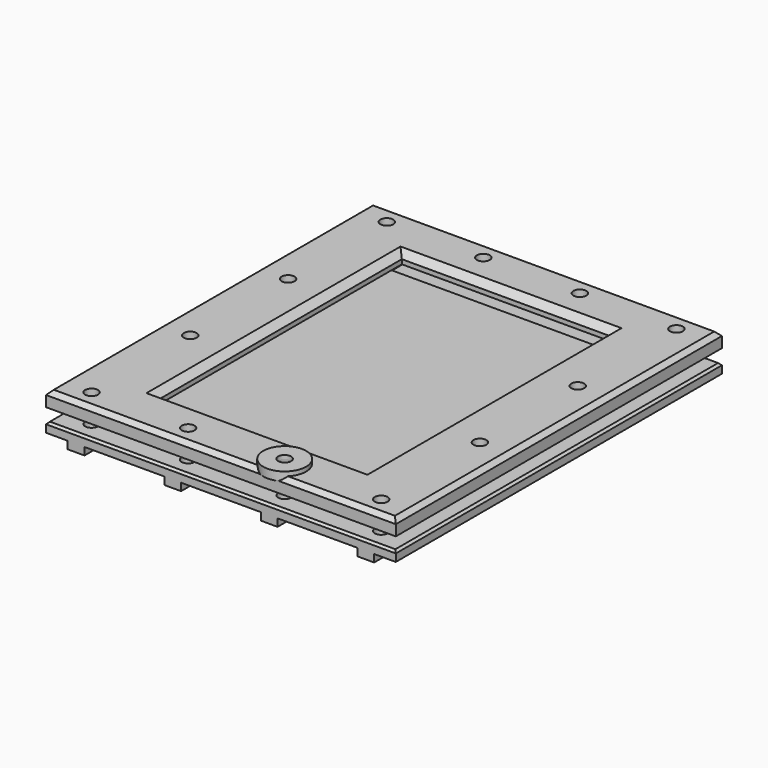
from build123d import *

# Parameters (mm, degrees)
BOX002_W          = 100
BOX002_H          = 150
BOX002_DEPTH      = 1.9
TUBE_R            = 10
TUBE_R_2          = 3
TUBE_DEPTH        = 4
BOX010_W          = 97
BOX010_H          = 142
BOX010_DEPTH      = 10
BOX009_W          = 101
BOX009_H          = 150
BOX009_DEPTH      = 1.9
CYLINDER016_R     = 3
CYLINDER016_DEPTH = 30
CYLINDER014_R     = 3
CYLINDER014_DEPTH = 30
CYLINDER012_R     = 3
CYLINDER012_DEPTH = 30
CYLINDER018_R     = 3
CYLINDER018_DEPTH = 30
CYLINDER019_R     = 3
CYLINDER019_DEPTH = 30
CYLINDER013_R     = 3
CYLINDER013_DEPTH = 30
CYLINDER015_R     = 3
CYLINDER015_DEPTH = 30
CYLINDER017_R     = 3
CYLINDER017_DEPTH = 30
CYLINDER002_R     = 3
CYLINDER002_DEPTH = 30
CYLINDER032_R     = 3
CYLINDER032_DEPTH = 30
CYLINDER021_R     = 3
CYLINDER021_DEPTH = 30
CYLINDER_R        = 3
CYLINDER_DEPTH    = 30
BOX007_W          = 163
BOX007_H          = 190
BOX007_DEPTH      = 7
CHAMFER_SIZE      = 3
CHAMFER001_SIZE   = 2
CYLINDER025_R     = 3
CYLINDER025_DEPTH = 30
CYLINDER031_R     = 3
CYLINDER031_DEPTH = 30
CYLINDER030_R     = 3
CYLINDER030_DEPTH = 30
CYLINDER024_R     = 3
CYLINDER024_DEPTH = 30
CYLINDER026_R     = 3
CYLINDER026_DEPTH = 30
CYLINDER027_R     = 3
CYLINDER027_DEPTH = 30
CYLINDER029_R     = 3
CYLINDER029_DEPTH = 30
CYLINDER023_R     = 3
CYLINDER023_DEPTH = 30
CYLINDER020_R     = 3
CYLINDER020_DEPTH = 30
CYLINDER028_R     = 3
CYLINDER028_DEPTH = 30
CYLINDER022_R     = 3
CYLINDER022_DEPTH = 30
CYLINDER033_R     = 3
CYLINDER033_DEPTH = 30
BOX006_W          = 37.2
BOX006_H          = 200
BOX006_DEPTH      = 3.5
BOX005_W          = 37.2
BOX005_H          = 200
BOX005_DEPTH      = 3.5
BOX004_W          = 37.2
BOX004_H          = 200
BOX004_DEPTH      = 3.5
BOX003_W          = 37.2
BOX003_H          = 200
BOX003_DEPTH      = 3.5
BOX001_W          = 37.2
BOX001_H          = 200
BOX001_DEPTH      = 3.5
BOX_W             = 163
BOX_H             = 190
BOX_DEPTH         = 8
CHAMFER002_SIZE   = 1


with BuildPart() as plate:
    # Box002 → Box002 (new body)
    with BuildSketch(Plane(origin=(31.5, 10, 14), x_dir=(1, 0, 0), z_dir=(0, 0, 1))):
        with Locations((50, 75)):
            Rectangle(BOX002_W, BOX002_H)
    extrude(amount=BOX002_DEPTH)


with BuildPart() as tube:
    # Tube → Tube (new body)
    with BuildSketch(Plane(origin=(104, 9, 19), x_dir=(1, 0, 0), z_dir=(0, 0, 1))):
        Circle(TUBE_R)
        Circle(TUBE_R_2, mode=Mode.SUBTRACT)
    extrude(amount=TUBE_DEPTH)


with BuildPart() as cube007:
    # Box010 → Box010 (new body)
    with BuildSketch(Plane(origin=(33, 24, 15), x_dir=(1, 0, 0), z_dir=(0, 0, 1))):
        with Locations((48.5, 71)):
            Rectangle(BOX010_W, BOX010_H)
    extrude(amount=BOX010_DEPTH)


with BuildPart() as plate002:
    # Box009 → Box009 (new body)
    with BuildSketch(Plane(origin=(31, 20, 14), x_dir=(1, 0, 0), z_dir=(0, 0, 1))):
        with Locations((50.5, 75)):
            Rectangle(BOX009_W, BOX009_H)
    extrude(amount=BOX009_DEPTH)


with BuildPart() as cylinder016:
    # Cylinder016 → Cylinder016 (new body)
    with BuildSketch(Plane(origin=(14, 66.5, -2), x_dir=(1, 0, 0), z_dir=(0, 0, 1))):
        Circle(CYLINDER016_R)
    extrude(amount=CYLINDER016_DEPTH)


with BuildPart() as cylinder014:
    # Cylinder014 → Cylinder014 (new body)
    with BuildSketch(Plane(origin=(14, 123.5, -2), x_dir=(1, 0, 0), z_dir=(0, 0, 1))):
        Circle(CYLINDER014_R)
    extrude(amount=CYLINDER014_DEPTH)


with BuildPart() as cylinder012:
    # Cylinder012 → Cylinder012 (new body)
    with BuildSketch(Plane(origin=(14, 181, -2), x_dir=(1, 0, 0), z_dir=(0, 0, 1))):
        Circle(CYLINDER012_R)
    extrude(amount=CYLINDER012_DEPTH)


with BuildPart() as cylinder018:
    # Cylinder018 → Cylinder018 (new body)
    with BuildSketch(Plane(origin=(59, 181, -2), x_dir=(1, 0, 0), z_dir=(0, 0, 1))):
        Circle(CYLINDER018_R)
    extrude(amount=CYLINDER018_DEPTH)


with BuildPart() as cylinder019:
    # Cylinder019 → Cylinder019 (new body)
    with BuildSketch(Plane(origin=(104, 181, -2), x_dir=(1, 0, 0), z_dir=(0, 0, 1))):
        Circle(CYLINDER019_R)
    extrude(amount=CYLINDER019_DEPTH)


with BuildPart() as cylinder013:
    # Cylinder013 → Cylinder013 (new body)
    with BuildSketch(Plane(origin=(149, 181, -2), x_dir=(1, 0, 0), z_dir=(0, 0, 1))):
        Circle(CYLINDER013_R)
    extrude(amount=CYLINDER013_DEPTH)


with BuildPart() as cylinder015:
    # Cylinder015 → Cylinder015 (new body)
    with BuildSketch(Plane(origin=(149, 123.5, -2), x_dir=(1, 0, 0), z_dir=(0, 0, 1))):
        Circle(CYLINDER015_R)
    extrude(amount=CYLINDER015_DEPTH)


with BuildPart() as cylinder017:
    # Cylinder017 → Cylinder017 (new body)
    with BuildSketch(Plane(origin=(149, 66.5, -2), x_dir=(1, 0, 0), z_dir=(0, 0, 1))):
        Circle(CYLINDER017_R)
    extrude(amount=CYLINDER017_DEPTH)


with BuildPart() as cylinder002:
    # Cylinder002 → Cylinder002 (new body)
    with BuildSketch(Plane(origin=(149, 9, -2), x_dir=(1, 0, 0), z_dir=(0, 0, 1))):
        Circle(CYLINDER002_R)
    extrude(amount=CYLINDER002_DEPTH)


with BuildPart() as cylinder032:
    # Cylinder032 → Cylinder032 (new body)
    with BuildSketch(Plane(origin=(104, 9, -2), x_dir=(1, 0, 0), z_dir=(0, 0, 1))):
        Circle(CYLINDER032_R)
    extrude(amount=CYLINDER032_DEPTH)


with BuildPart() as cylinder021:
    # Cylinder021 → Cylinder021 (new body)
    with BuildSketch(Plane(origin=(59, 9, -2), x_dir=(1, 0, 0), z_dir=(0, 0, 1))):
        Circle(CYLINDER021_R)
    extrude(amount=CYLINDER021_DEPTH)


with BuildPart() as cylinder:
    # Cylinder → Cylinder (new body)
    with BuildSketch(Plane(origin=(14, 9, -2), x_dir=(1, 0, 0), z_dir=(0, 0, 1))):
        Circle(CYLINDER_R)
    extrude(amount=CYLINDER_DEPTH)


with BuildPart() as table_top:
    # Box007 → Box007 (new body)
    with BuildSketch(Plane.XY.offset(14)):
        with Locations((81.5, 95)):
            Rectangle(BOX007_W, BOX007_H)
    extrude(amount=BOX007_DEPTH)

    # Cut005: cut Cylinder
    add(cylinder.part, mode=Mode.SUBTRACT)

    # Cut006: cut Cylinder021
    add(cylinder021.part, mode=Mode.SUBTRACT)

    # Cut007: cut Cylinder032
    add(cylinder032.part, mode=Mode.SUBTRACT)

    # Cut008: cut Cylinder002
    add(cylinder002.part, mode=Mode.SUBTRACT)

    # Cut009: cut Cylinder017
    add(cylinder017.part, mode=Mode.SUBTRACT)

    # Cut010: cut Cylinder015
    add(cylinder015.part, mode=Mode.SUBTRACT)

    # Cut011: cut Cylinder013
    add(cylinder013.part, mode=Mode.SUBTRACT)

    # Cut012: cut Cylinder019
    add(cylinder019.part, mode=Mode.SUBTRACT)

    # Cut013: cut Cylinder018
    add(cylinder018.part, mode=Mode.SUBTRACT)

    # Cut014: cut Cylinder012
    add(cylinder012.part, mode=Mode.SUBTRACT)

    # Cut015: cut Cylinder014
    add(cylinder014.part, mode=Mode.SUBTRACT)

    # Cut016: cut Cylinder016
    add(cylinder016.part, mode=Mode.SUBTRACT)

    # Cut029: cut plate002
    add(plate002.part, mode=Mode.SUBTRACT)

    # Cut030: cut Cube007
    add(cube007.part, mode=Mode.SUBTRACT)

    # Chamfer
    chamfer_edges = [table_top.edges().sort_by_distance(p)[0] for p in [
        (81.5, 24, 21),
        (130, 95, 21),
        (81.5, 166, 21),
        (33, 95, 21),
    ]]
    chamfer(chamfer_edges, length=CHAMFER_SIZE)

    # Chamfer001
    chamfer001_edges = [table_top.edges().sort_by_distance(p)[0] for p in [
        (0, 95, 21),
        (81.5, 0, 21),
        (163, 95, 21),
        (81.5, 190, 21),
    ]]
    chamfer(chamfer001_edges, length=CHAMFER001_SIZE)


with BuildPart() as cylinder025:
    # Cylinder025 → Cylinder025 (new body)
    with BuildSketch(Plane(origin=(149, 181, -2), x_dir=(1, 0, 0), z_dir=(0, 0, 1))):
        Circle(CYLINDER025_R)
    extrude(amount=CYLINDER025_DEPTH)


with BuildPart() as cylinder031:
    # Cylinder031 → Cylinder031 (new body)
    with BuildSketch(Plane(origin=(104, 181, -2), x_dir=(1, 0, 0), z_dir=(0, 0, 1))):
        Circle(CYLINDER031_R)
    extrude(amount=CYLINDER031_DEPTH)


with BuildPart() as cylinder030:
    # Cylinder030 → Cylinder030 (new body)
    with BuildSketch(Plane(origin=(59, 181, -2), x_dir=(1, 0, 0), z_dir=(0, 0, 1))):
        Circle(CYLINDER030_R)
    extrude(amount=CYLINDER030_DEPTH)


with BuildPart() as cylinder024:
    # Cylinder024 → Cylinder024 (new body)
    with BuildSketch(Plane(origin=(14, 181, -2), x_dir=(1, 0, 0), z_dir=(0, 0, 1))):
        Circle(CYLINDER024_R)
    extrude(amount=CYLINDER024_DEPTH)


with BuildPart() as cylinder026:
    # Cylinder026 → Cylinder026 (new body)
    with BuildSketch(Plane(origin=(14, 123.5, -2), x_dir=(1, 0, 0), z_dir=(0, 0, 1))):
        Circle(CYLINDER026_R)
    extrude(amount=CYLINDER026_DEPTH)


with BuildPart() as cylinder027:
    # Cylinder027 → Cylinder027 (new body)
    with BuildSketch(Plane(origin=(149, 123.5, -2), x_dir=(1, 0, 0), z_dir=(0, 0, 1))):
        Circle(CYLINDER027_R)
    extrude(amount=CYLINDER027_DEPTH)


with BuildPart() as cylinder029:
    # Cylinder029 → Cylinder029 (new body)
    with BuildSketch(Plane(origin=(149, 66.5, -2), x_dir=(1, 0, 0), z_dir=(0, 0, 1))):
        Circle(CYLINDER029_R)
    extrude(amount=CYLINDER029_DEPTH)


with BuildPart() as cylinder023:
    # Cylinder023 → Cylinder023 (new body)
    with BuildSketch(Plane(origin=(149, 9, -2), x_dir=(1, 0, 0), z_dir=(0, 0, 1))):
        Circle(CYLINDER023_R)
    extrude(amount=CYLINDER023_DEPTH)


with BuildPart() as cylinder020:
    # Cylinder020 → Cylinder020 (new body)
    with BuildSketch(Plane(origin=(104, 9, -2), x_dir=(1, 0, 0), z_dir=(0, 0, 1))):
        Circle(CYLINDER020_R)
    extrude(amount=CYLINDER020_DEPTH)


with BuildPart() as cylinder028:
    # Cylinder028 → Cylinder028 (new body)
    with BuildSketch(Plane(origin=(14, 66.5, -2), x_dir=(1, 0, 0), z_dir=(0, 0, 1))):
        Circle(CYLINDER028_R)
    extrude(amount=CYLINDER028_DEPTH)


with BuildPart() as cylinder022:
    # Cylinder022 → Cylinder022 (new body)
    with BuildSketch(Plane(origin=(14, 9, -2), x_dir=(1, 0, 0), z_dir=(0, 0, 1))):
        Circle(CYLINDER022_R)
    extrude(amount=CYLINDER022_DEPTH)


with BuildPart() as cylinder033:
    # Cylinder033 → Cylinder033 (new body)
    with BuildSketch(Plane(origin=(59, 9, -2), x_dir=(1, 0, 0), z_dir=(0, 0, 1))):
        Circle(CYLINDER033_R)
    extrude(amount=CYLINDER033_DEPTH)


with BuildPart() as cube005:
    # Box006 → Box006 (new body)
    with BuildSketch(Plane(origin=(-27.1, -5, 0), x_dir=(1, 0, 0), z_dir=(0, 0, 1))):
        with Locations((18.6, 100)):
            Rectangle(BOX006_W, BOX006_H)
    extrude(amount=BOX006_DEPTH)


with BuildPart() as cube004:
    # Box005 → Box005 (new body)
    with BuildSketch(Plane(origin=(152.9, -5, 0), x_dir=(1, 0, 0), z_dir=(0, 0, 1))):
        with Locations((18.6, 100)):
            Rectangle(BOX005_W, BOX005_H)
    extrude(amount=BOX005_DEPTH)


with BuildPart() as cube003:
    # Box004 → Box004 (new body)
    with BuildSketch(Plane(origin=(107.9, -5, 0), x_dir=(1, 0, 0), z_dir=(0, 0, 1))):
        with Locations((18.6, 100)):
            Rectangle(BOX004_W, BOX004_H)
    extrude(amount=BOX004_DEPTH)


with BuildPart() as cube002:
    # Box003 → Box003 (new body)
    with BuildSketch(Plane(origin=(62.9, -5, 0), x_dir=(1, 0, 0), z_dir=(0, 0, 1))):
        with Locations((18.6, 100)):
            Rectangle(BOX003_W, BOX003_H)
    extrude(amount=BOX003_DEPTH)


with BuildPart() as cube001:
    # Box001 → Box001 (new body)
    with BuildSketch(Plane(origin=(17.9, -5, 0), x_dir=(1, 0, 0), z_dir=(0, 0, 1))):
        with Locations((18.6, 100)):
            Rectangle(BOX001_W, BOX001_H)
    extrude(amount=BOX001_DEPTH)


with BuildPart() as table_top001:
    # Box → Box (new body)
    with BuildSketch(Plane.XY):
        with Locations((81.5, 95)):
            Rectangle(BOX_W, BOX_H)
    extrude(amount=BOX_DEPTH)

    # Cut: cut Cube001
    add(cube001.part, mode=Mode.SUBTRACT)

    # Cut001: cut Cube002
    add(cube002.part, mode=Mode.SUBTRACT)

    # Cut002: cut Cube003
    add(cube003.part, mode=Mode.SUBTRACT)

    # Cut003: cut Cube004
    add(cube004.part, mode=Mode.SUBTRACT)

    # Cut004: cut Cube005
    add(cube005.part, mode=Mode.SUBTRACT)

    # Cut017: cut Cylinder033
    add(cylinder033.part, mode=Mode.SUBTRACT)

    # Cut018: cut Cylinder022
    add(cylinder022.part, mode=Mode.SUBTRACT)

    # Cut019: cut Cylinder028
    add(cylinder028.part, mode=Mode.SUBTRACT)

    # Cut020: cut Cylinder020
    add(cylinder020.part, mode=Mode.SUBTRACT)

    # Cut021: cut Cylinder023
    add(cylinder023.part, mode=Mode.SUBTRACT)

    # Cut022: cut Cylinder029
    add(cylinder029.part, mode=Mode.SUBTRACT)

    # Cut023: cut Cylinder027
    add(cylinder027.part, mode=Mode.SUBTRACT)

    # Cut024: cut Cylinder026
    add(cylinder026.part, mode=Mode.SUBTRACT)

    # Cut025: cut Cylinder024
    add(cylinder024.part, mode=Mode.SUBTRACT)

    # Cut026: cut Cylinder030
    add(cylinder030.part, mode=Mode.SUBTRACT)

    # Cut027: cut Cylinder031
    add(cylinder031.part, mode=Mode.SUBTRACT)

    # Cut028: cut Cylinder025
    add(cylinder025.part, mode=Mode.SUBTRACT)

    # Chamfer002
    chamfer002_edges = [table_top001.edges().sort_by_distance(p)[0] for p in [
        (0, 95, 8),
        (81.5, 0, 8),
        (81.5, 190, 8),
        (163, 95, 8),
    ]]
    chamfer(chamfer002_edges, length=CHAMFER002_SIZE)


solid = Compound([plate.part, tube.part, table_top.part, table_top001.part])
